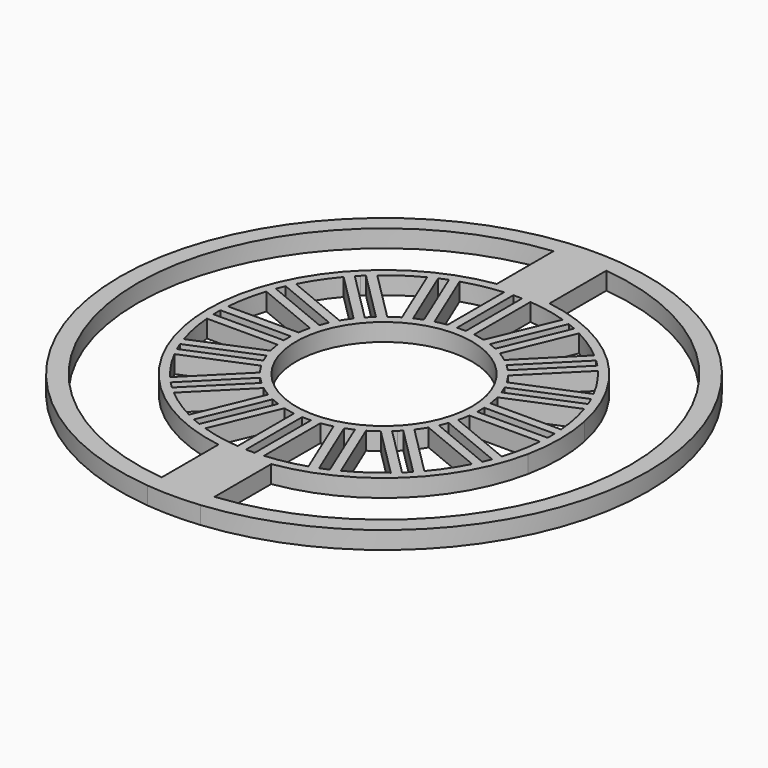
from build123d import *

# Parameters (mm, degrees)
F0_R     = 10
F1_DEPTH = 2
F3_DEPTH = 25
F5_DEPTH = 25
F6_R     = 30
F6_R_2   = 28
F7_DEPTH = 2


with BuildPart() as f1:
    # F0 (on Top) → F1 (new body)
    with BuildSketch(Plane.XY):
        with BuildLine():
            ThreePointArc((3, 29.849623), (0, 30), (-3, 29.849623))
            Line((-3, 29.849623), (-3, 19.77372))
            ThreePointArc((-3, 19.77372), (-13.778477, 14.496674), (-19.595918, 4))
            ThreePointArc((-19.595918, 4), (-20, 0), (-19.595918, -4))
            ThreePointArc((-19.595918, -4), (-13.778477, -14.496674), (-3, -19.77372))
            Line((-3, -19.77372), (-3, -29.849623))
            ThreePointArc((-3, -29.849623), (0, -30), (3, -29.849623))
            Line((3, -29.849623), (3, -19.77372))
            ThreePointArc((3, -19.77372), (13.778477, -14.496674), (19.595918, -4))
            ThreePointArc((19.595918, -4), (20, 0), (19.595918, 4))
            ThreePointArc((19.595918, 4), (13.778477, 14.496674), (3, 19.77372))
            Line((3, 19.77372), (3, 29.849623))
        make_face()
        Circle(F0_R, mode=Mode.SUBTRACT)
    extrude(amount=F1_DEPTH)

    # F2 (on face) → F3 (cut)
    with BuildSketch(Plane.XY.offset(2)):
        Polygon((0, 19), (-0.5, 19), (-0.5, 11), (0, 11), (0.5, 11), (0.5, 19), align=None)
        Polygon((4.671458, 9.971333), (7.732925, 17.362369), (7.270985, 17.553711), (6.809045, 17.745053), (3.747578, 10.354017), (4.209518, 10.162675), align=None)
        Polygon((8.131728, 7.424621), (13.788582, 13.081475), (13.435029, 13.435029), (13.081475, 13.788582), (7.424621, 8.131728), (7.778175, 7.778175), align=None)
        Polygon((10.354017, 3.747578), (17.745053, 6.809045), (17.553711, 7.270985), (17.362369, 7.732925), (9.971333, 4.671458), (10.162675, 4.209518), align=None)
        Polygon((11, -0.5), (19, -0.5), (19, 0), (19, 0.5), (11, 0.5), (11, 0), align=None)
        Polygon((9.971333, -4.671458), (17.362369, -7.732925), (17.553711, -7.270985), (17.745053, -6.809045), (10.354017, -3.747578), (10.162675, -4.209518), align=None)
        Polygon((7.424621, -8.131728), (13.081475, -13.788582), (13.435029, -13.435029), (13.788582, -13.081475), (8.131728, -7.424621), (7.778175, -7.778175), align=None)
        Polygon((3.747578, -10.354017), (6.809045, -17.745053), (7.270985, -17.553711), (7.732925, -17.362369), (4.671458, -9.971333), (4.209518, -10.162675), align=None)
        Polygon((-0.5, -11), (-0.5, -19), (0, -19), (0.5, -19), (0.5, -11), (0, -11), align=None)
        Polygon((-13.435029, 13.435029), (-13.788582, 13.081475), (-8.131728, 7.424621), (-7.778175, 7.778175), (-7.424621, 8.131728), (-13.081475, 13.788582), align=None)
        Polygon((-11, 0.5), (-19, 0.5), (-19, 0), (-19, -0.5), (-11, -0.5), (-11, 0), align=None)
        Polygon((-10.354017, -3.747578), (-17.745053, -6.809045), (-17.553711, -7.270985), (-17.362369, -7.732925), (-9.971333, -4.671458), (-10.162675, -4.209518), align=None)
        Polygon((-7.778175, -7.778175), (-8.131728, -7.424621), (-13.788582, -13.081475), (-13.435029, -13.435029), (-13.081475, -13.788582), (-7.424621, -8.131728), align=None)
        Polygon((-17.553711, 7.270985), (-17.745053, 6.809045), (-10.354017, 3.747578), (-10.162675, 4.209518), (-9.971333, 4.671458), (-17.362369, 7.732925), align=None)
        Polygon((-7.270985, -17.553711), (-6.809045, -17.745053), (-3.747578, -10.354017), (-4.209518, -10.162675), (-4.671458, -9.971333), (-7.732925, -17.362369), align=None)
        Polygon((-7.270985, 17.553711), (-7.732925, 17.362369), (-4.671458, 9.971333), (-4.209518, 10.162675), (-3.747578, 10.354017), (-6.809045, 17.745053), align=None)
    extrude(amount=-F3_DEPTH, mode=Mode.SUBTRACT)

    # F4 (on face) → F5 (cut)
    with BuildSketch(Plane.XY.offset(2)):
        with BuildLine():
            ThreePointArc((-2.788764, 10.652361), (-2.148209, 10.799778), (-1.5, 10.908712))
            Line((-1.5, 10.908712), (-1.5, 18.93245))
            ThreePointArc((-1.5, 18.93245), (-3.705112, 18.626857), (-5.859316, 18.065328))
            Line((-5.859316, 18.065328), (-2.788764, 10.652361))
        make_face()
        with BuildLine():
            Line((2.788764, 10.652361), (5.859316, 18.065328))
            ThreePointArc((5.859316, 18.065328), (3.705112, 18.626857), (1.5, 18.93245))
            Line((1.5, 18.93245), (1.5, 10.908712))
            ThreePointArc((1.5, 10.908712), (2.148209, 10.799778), (2.788764, 10.652361))
        make_face()
        with BuildLine():
            Line((6.652964, 8.774284), (12.326604, 14.447924))
            ThreePointArc((12.326604, 14.447924), (10.551267, 15.791087), (8.630954, 16.917278))
            Line((8.630954, 16.917278), (5.560403, 9.504311))
            ThreePointArc((5.560403, 9.504311), (6.117583, 9.155609), (6.652964, 8.774284))
        make_face()
        with BuildLine():
            Line((9.504311, 5.560403), (16.917278, 8.630954))
            ThreePointArc((16.917278, 8.630954), (15.791087, 10.551267), (14.447924, 12.326604))
            Line((14.447924, 12.326604), (8.774284, 6.652964))
            ThreePointArc((8.774284, 6.652964), (9.155609, 6.117583), (9.504311, 5.560403))
        make_face()
        with BuildLine():
            Line((10.908712, 1.5), (18.93245, 1.5))
            ThreePointArc((18.93245, 1.5), (18.626857, 3.705112), (18.065328, 5.859316))
            Line((18.065328, 5.859316), (10.652361, 2.788764))
            ThreePointArc((10.652361, 2.788764), (10.799778, 2.148209), (10.908712, 1.5))
        make_face()
        with BuildLine():
            Line((10.652361, -2.788764), (18.065328, -5.859316))
            ThreePointArc((18.065328, -5.859316), (18.626857, -3.705112), (18.93245, -1.5))
            Line((18.93245, -1.5), (10.908712, -1.5))
            ThreePointArc((10.908712, -1.5), (10.799778, -2.148209), (10.652361, -2.788764))
        make_face()
        with BuildLine():
            Line((8.774284, -6.652964), (14.447924, -12.326604))
            ThreePointArc((14.447924, -12.326604), (15.791087, -10.551267), (16.917278, -8.630954))
            Line((16.917278, -8.630954), (9.504311, -5.560403))
            ThreePointArc((9.504311, -5.560403), (9.155609, -6.117583), (8.774284, -6.652964))
        make_face()
        with BuildLine():
            Line((5.560403, -9.504311), (8.630954, -16.917278))
            ThreePointArc((8.630954, -16.917278), (10.551267, -15.791087), (12.326604, -14.447924))
            Line((12.326604, -14.447924), (6.652964, -8.774284))
            ThreePointArc((6.652964, -8.774284), (6.117583, -9.155609), (5.560403, -9.504311))
        make_face()
        with BuildLine():
            Line((1.5, -10.908712), (1.5, -18.93245))
            ThreePointArc((1.5, -18.93245), (3.705112, -18.626857), (5.859316, -18.065328))
            Line((5.859316, -18.065328), (2.788764, -10.652361))
            ThreePointArc((2.788764, -10.652361), (2.148209, -10.799778), (1.5, -10.908712))
        make_face()
        with BuildLine():
            ThreePointArc((-8.630954, 16.917278), (-10.551267, 15.791087), (-12.326604, 14.447924))
            Line((-12.326604, 14.447924), (-6.652964, 8.774284))
            ThreePointArc((-6.652964, 8.774284), (-6.117583, 9.155609), (-5.560403, 9.504311))
            Line((-5.560403, 9.504311), (-8.630954, 16.917278))
        make_face()
        with BuildLine():
            Line((-18.93245, 1.5), (-10.908712, 1.5))
            ThreePointArc((-10.908712, 1.5), (-10.799778, 2.148209), (-10.652361, 2.788764))
            Line((-10.652361, 2.788764), (-18.065328, 5.859316))
            ThreePointArc((-18.065328, 5.859316), (-18.626857, 3.705112), (-18.93245, 1.5))
        make_face()
        with BuildLine():
            Line((-14.447924, -12.326604), (-8.774284, -6.652964))
            ThreePointArc((-8.774284, -6.652964), (-9.155609, -6.117583), (-9.504311, -5.560403))
            Line((-9.504311, -5.560403), (-16.917278, -8.630954))
            ThreePointArc((-16.917278, -8.630954), (-15.791087, -10.551267), (-14.447924, -12.326604))
        make_face()
        with BuildLine():
            Line((-18.065328, -5.859316), (-10.652361, -2.788764))
            ThreePointArc((-10.652361, -2.788764), (-10.799778, -2.148209), (-10.908712, -1.5))
            Line((-10.908712, -1.5), (-18.93245, -1.5))
            ThreePointArc((-18.93245, -1.5), (-18.626857, -3.705112), (-18.065328, -5.859316))
        make_face()
        with BuildLine():
            Line((-16.917278, 8.630954), (-9.504311, 5.560403))
            ThreePointArc((-9.504311, 5.560403), (-9.155609, 6.117583), (-8.774284, 6.652964))
            Line((-8.774284, 6.652964), (-14.447924, 12.326604))
            ThreePointArc((-14.447924, 12.326604), (-15.791087, 10.551267), (-16.917278, 8.630954))
        make_face()
        with BuildLine():
            ThreePointArc((-12.326604, -14.447924), (-10.551267, -15.791087), (-8.630954, -16.917278))
            Line((-8.630954, -16.917278), (-5.560403, -9.504311))
            ThreePointArc((-5.560403, -9.504311), (-6.117583, -9.155609), (-6.652964, -8.774284))
            Line((-6.652964, -8.774284), (-12.326604, -14.447924))
        make_face()
        with BuildLine():
            ThreePointArc((-1.5, -10.908712), (-2.148209, -10.799778), (-2.788764, -10.652361))
            Line((-2.788764, -10.652361), (-5.859316, -18.065328))
            ThreePointArc((-5.859316, -18.065328), (-3.705112, -18.626857), (-1.5, -18.93245))
            Line((-1.5, -18.93245), (-1.5, -10.908712))
        make_face()
    extrude(amount=-F5_DEPTH, mode=Mode.SUBTRACT)

    # F6 (on Top) → F7 (join)
    with BuildSketch(Plane.XY):
        Circle(F6_R)
        Circle(F6_R_2, mode=Mode.SUBTRACT)
    extrude(amount=F7_DEPTH)


solid = f1.part
